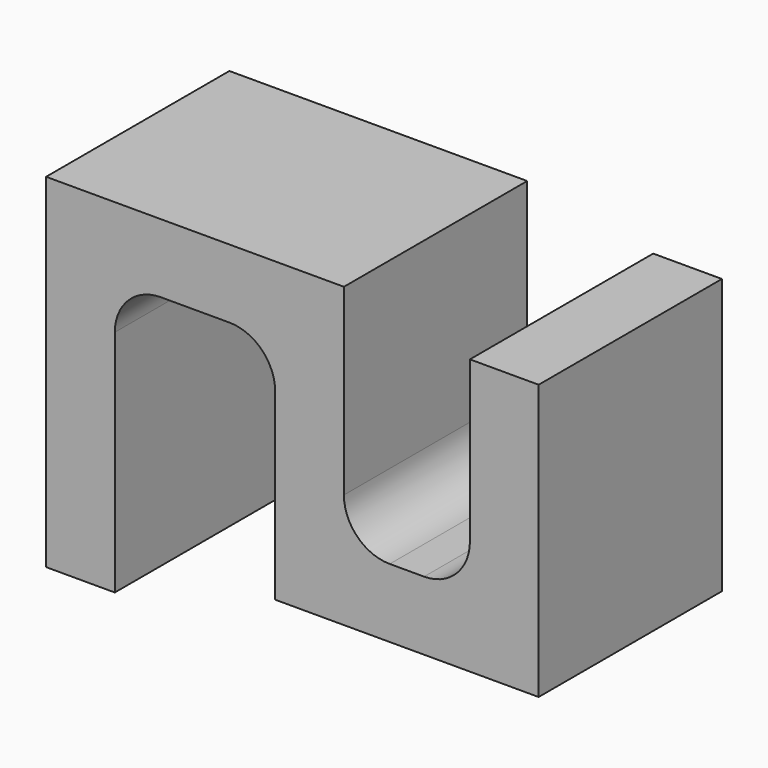
from build123d import *

# Parameters (mm, degrees)
F1_DEPTH = 10


with BuildPart() as f1:
    # F0 (on Front) → F1 (new body)
    with BuildSketch(Plane.XZ):
        with BuildLine():
            Line((0, 15), (0, 0))
            Line((0, 0), (3, 0))
            Line((3, 0), (3, 10))
            ThreePointArc((3, 10), (3.585786, 11.414214), (5, 12))
            Line((5, 12), (8, 12))
            ThreePointArc((8, 12), (9.414214, 11.414214), (10, 10))
            Line((10, 10), (10, 2))
            Line((10, 2), (21.5, 2))
            Line((21.5, 2), (21.5, 14))
            Line((21.5, 14), (18.5, 14))
            Line((18.5, 14), (18.5, 7))
            ThreePointArc((18.5, 7), (17.914214, 5.585786), (16.5, 5))
            Line((16.5, 5), (15, 5))
            ThreePointArc((15, 5), (13.585786, 5.585786), (13, 7))
            Line((13, 7), (13, 15))
            Line((13, 15), (0, 15))
        make_face()
    extrude(amount=F1_DEPTH)


solid = f1.part
